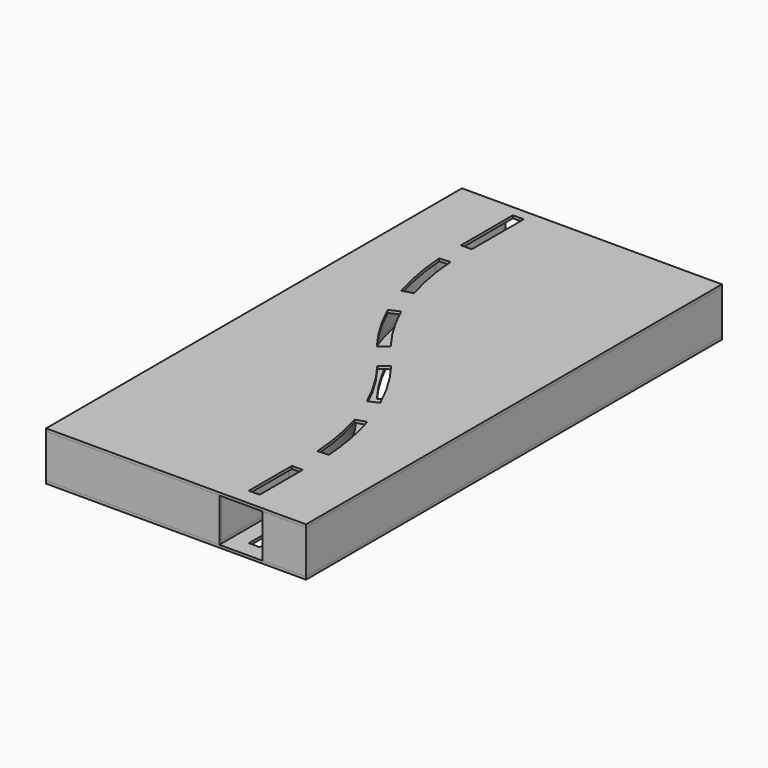
from build123d import *

# Parameters (mm, degrees)
F0_W      = 25.4
F0_H      = 126.473148486
F0_H_2    = 152.4
F1_DEPTH  = 6.35
F2_W      = 6.35
F2_H      = 101.6
F2_W_2    = 101.6
F2_R      = 44.45
F5_DEPTH  = 6.35
F6_DEPTH  = 6.35
F7_DEPTH  = 0.254
F9_DEPTH  = 101.6
F11_START = 101.6
F11_DEPTH = 6.35


with BuildPart() as f1:
    # F0 (on Top) → F1 (new body)
    with BuildSketch(Plane.XY):
        with BuildLine():
            Line((0, 1219.2), (0, 0))
            Line((0, 0), (406.4, 0))
            Line((406.4, 0), (406.4, 203.2))
            ThreePointArc((406.4, 203.2), (370.2816647957, 402.3806242984), (266.5260273973, 576.197260274))
            ThreePointArc((266.5260273973, 576.197260274), (144.1872907633, 781.1452340362), (101.6, 1016))
            Line((101.6, 1016), (101.6, 1219.2))
            Line((101.6, 1219.2), (0, 1219.2))
        make_face()
        with BuildLine():
            Line((406.4, 203.2), (406.4, 0))
            Line((406.4, 0), (508, 0))
            Line((508, 0), (508, 203.2))
            ThreePointArc((508, 203.2), (465.4127092367, 438.0547659638), (343.0739726027, 643.002739726))
            ThreePointArc((343.0739726027, 643.002739726), (239.3183352043, 816.8193757016), (203.2, 1016))
            Line((203.2, 1016), (203.2, 1219.2))
            Line((203.2, 1219.2), (101.6, 1219.2))
            Line((101.6, 1219.2), (101.6, 1016))
            ThreePointArc((101.6, 1016), (144.1872907633, 781.1452340362), (266.5260273973, 576.197260274))
            ThreePointArc((266.5260273973, 576.197260274), (370.2816647957, 402.3806242984), (406.4, 203.2))
        make_face()
        with Locations((457.2, 101.863425757)):
            Rectangle(F0_W, F0_H, mode=Mode.SUBTRACT)
        with BuildLine():
            Line((469.9, 241.3), (444.5, 239.7657718121))
            ThreePointArc((444.5, 239.7657718121), (436.0082925939, 310.6529654643), (419.2450112594, 380.0510613852))
            Line((419.2450112594, 380.0510613852), (443.5853613822, 387.4713856391))
            ThreePointArc((443.5853613822, 387.4713856391), (461.0519971782, 315.1614814977), (469.9, 241.3))
        make_face(mode=Mode.SUBTRACT)
        with BuildLine():
            Line((319.3793460557, 571.7547020123), (339.5295284077, 587.2185356631))
            ThreePointArc((339.5295284077, 587.2185356631), (380.7444662625, 526.5016678969), (414.6285819031, 461.4088430929))
            Line((414.6285819031, 461.4088430929), (391.4542765916, 451.0111715589))
            ThreePointArc((391.4542765916, 451.0111715589), (358.9346219835, 513.482808787), (319.3793460557, 571.7547020123))
        make_face(mode=Mode.SUBTRACT)
        with BuildLine():
            ThreePointArc((218.1457234084, 768.1888284411), (250.6653780165, 705.717191213), (290.2206539443, 647.4452979877))
            Line((290.2206539443, 647.4452979877), (270.0704715923, 631.9814643369))
            ThreePointArc((270.0704715923, 631.9814643369), (228.8555337375, 692.6983321031), (194.9714180969, 757.7911569071))
            Line((194.9714180969, 757.7911569071), (218.1457234084, 768.1888284411))
        make_face(mode=Mode.SUBTRACT)
        with BuildLine():
            ThreePointArc((166.3001406897, 977.9), (174.8139858785, 907.9875702476), (191.3901171594, 839.5371117718))
            Line((191.3901171594, 839.5371117718), (167.0931989982, 832.1330745035))
            ThreePointArc((167.0931989982, 832.1330745035), (149.8215657056, 903.4555801881), (140.9504962431, 976.3013986014))
            Line((140.9504962431, 976.3013986014), (166.3001406897, 977.9))
        make_face(mode=Mode.SUBTRACT)
        with Locations((152.4, 1117.6)):
            Rectangle(F0_W, F0_H_2, mode=Mode.SUBTRACT)
        with BuildLine():
            Line((508, 203.2), (508, 0))
            Line((508, 0), (609.6, 0))
            Line((609.6, 0), (609.6, 1219.2))
            Line((609.6, 1219.2), (203.2, 1219.2))
            Line((203.2, 1219.2), (203.2, 1016))
            ThreePointArc((203.2, 1016), (239.3183352043, 816.8193757016), (343.0739726027, 643.002739726))
            ThreePointArc((343.0739726027, 643.002739726), (465.4127092367, 438.0547659638), (508, 203.2))
        make_face()
    extrude(amount=-F1_DEPTH)

    # F0 (on Top) → F7 (cut)
    with BuildSketch(Plane.XY):
        with BuildLine():
            Line((406.4, 203.2), (406.4, 0))
            Line((406.4, 0), (508, 0))
            Line((508, 0), (508, 203.2))
            ThreePointArc((508, 203.2), (465.4127092367, 438.0547659638), (343.0739726027, 643.002739726))
            ThreePointArc((343.0739726027, 643.002739726), (239.3183352043, 816.8193757016), (203.2, 1016))
            Line((203.2, 1016), (203.2, 1219.2))
            Line((203.2, 1219.2), (101.6, 1219.2))
            Line((101.6, 1219.2), (101.6, 1016))
            ThreePointArc((101.6, 1016), (144.1872907633, 781.1452340362), (266.5260273973, 576.197260274))
            ThreePointArc((266.5260273973, 576.197260274), (370.2816647957, 402.3806242984), (406.4, 203.2))
        make_face()
        with Locations((457.2, 101.863425757)):
            Rectangle(F0_W, F0_H, mode=Mode.SUBTRACT)
        with BuildLine():
            Line((469.9, 241.3), (444.5, 239.7657718121))
            ThreePointArc((444.5, 239.7657718121), (436.0082925939, 310.6529654643), (419.2450112594, 380.0510613852))
            Line((419.2450112594, 380.0510613852), (443.5853613822, 387.4713856391))
            ThreePointArc((443.5853613822, 387.4713856391), (461.0519971782, 315.1614814977), (469.9, 241.3))
        make_face(mode=Mode.SUBTRACT)
        with BuildLine():
            Line((319.3793460557, 571.7547020123), (339.5295284077, 587.2185356631))
            ThreePointArc((339.5295284077, 587.2185356631), (380.7444662625, 526.5016678969), (414.6285819031, 461.4088430929))
            Line((414.6285819031, 461.4088430929), (391.4542765916, 451.0111715589))
            ThreePointArc((391.4542765916, 451.0111715589), (358.9346219835, 513.482808787), (319.3793460557, 571.7547020123))
        make_face(mode=Mode.SUBTRACT)
        with BuildLine():
            ThreePointArc((218.1457234084, 768.1888284411), (250.6653780165, 705.717191213), (290.2206539443, 647.4452979877))
            Line((290.2206539443, 647.4452979877), (270.0704715923, 631.9814643369))
            ThreePointArc((270.0704715923, 631.9814643369), (228.8555337375, 692.6983321031), (194.9714180969, 757.7911569071))
            Line((194.9714180969, 757.7911569071), (218.1457234084, 768.1888284411))
        make_face(mode=Mode.SUBTRACT)
        with BuildLine():
            ThreePointArc((166.3001406897, 977.9), (174.8139858785, 907.9875702476), (191.3901171594, 839.5371117718))
            Line((191.3901171594, 839.5371117718), (167.0931989982, 832.1330745035))
            ThreePointArc((167.0931989982, 832.1330745035), (149.8215657056, 903.4555801881), (140.9504962431, 976.3013986014))
            Line((140.9504962431, 976.3013986014), (166.3001406897, 977.9))
        make_face(mode=Mode.SUBTRACT)
        with Locations((152.4, 1117.6)):
            Rectangle(F0_W, F0_H_2, mode=Mode.SUBTRACT)
    extrude(amount=-F7_DEPTH, mode=Mode.SUBTRACT)


with BuildPart() as f3:
    # F3: sweep along a path in F0
    with BuildLine(Plane.XY) as f3_path:
        Line((406.4, 0), (406.4, 203.2))
        ThreePointArc((406.4, 203.2), (370.2816647957, 402.3806242984), (266.5260273973, 576.197260274))
        ThreePointArc((266.5260273973, 576.197260274), (144.1872907633, 781.1452340362), (101.6, 1016))
        Line((101.6, 1016), (101.6, 1219.2))
    # F2 (on face) → F3 (sweep)
    with BuildSketch(Plane.XZ):
        with Locations((403.225, 50.8)):
            Rectangle(F2_W, F2_H)
    sweep(path=f3_path.line)


with BuildPart() as f4:
    # F4: sweep along a path in F0
    with BuildLine(Plane.XY) as f4_path:
        Line((508, 0), (508, 203.2))
        ThreePointArc((508, 203.2), (465.4127092367, 438.0547659638), (343.0739726027, 643.002739726))
        ThreePointArc((343.0739726027, 643.002739726), (239.3183352043, 816.8193757016), (203.2, 1016))
        Line((203.2, 1016), (203.2, 1219.2))
    # F2 (on face) → F4 (sweep)
    with BuildSketch(Plane.XZ):
        with Locations((511.175, 50.8)):
            Rectangle(F2_W, F2_H)
    sweep(path=f4_path.line)


with BuildPart() as f5:
    # F2 (on face) → F5 (new body)
    with BuildSketch(Plane.XZ):
        with Locations((457.2, 50.8)):
            Rectangle(F2_W_2, F2_H)
        with Locations((457.2, 50.8)):
            Circle(F2_R, mode=Mode.SUBTRACT)
    extrude(amount=F5_DEPTH)


with BuildPart() as f6:
    # F0 (on Top) → F6 (new body)
    with BuildSketch(Plane.XY):
        with BuildLine():
            Line((0, 1219.2), (0, 0))
            Line((0, 0), (406.4, 0))
            Line((406.4, 0), (406.4, 203.2))
            ThreePointArc((406.4, 203.2), (370.2816647957, 402.3806242984), (266.5260273973, 576.197260274))
            ThreePointArc((266.5260273973, 576.197260274), (144.1872907633, 781.1452340362), (101.6, 1016))
            Line((101.6, 1016), (101.6, 1219.2))
            Line((101.6, 1219.2), (0, 1219.2))
        make_face()
    extrude(amount=F6_DEPTH)


with BuildPart() as f6b:
    # F0 (on Top) → F6, piece 2 (new body)
    with BuildSketch(Plane.XY):
        with BuildLine():
            Line((508, 203.2), (508, 0))
            Line((508, 0), (609.6, 0))
            Line((609.6, 0), (609.6, 1219.2))
            Line((609.6, 1219.2), (203.2, 1219.2))
            Line((203.2, 1219.2), (203.2, 1016))
            ThreePointArc((203.2, 1016), (239.3183352043, 816.8193757016), (343.0739726027, 643.002739726))
            ThreePointArc((343.0739726027, 643.002739726), (465.4127092367, 438.0547659638), (508, 203.2))
        make_face()
    extrude(amount=F6_DEPTH)


with BuildPart() as f9:
    # F8 (on face) → F9 (new body)
    with BuildSketch(Plane.XY):
        Polygon((101.6, 1219.2), (0, 1219.2), (0, 0), (406.4, 0), (406.4, 6.5835835412), (6.4838468097, 6.5835835412), (6.4838468097, 1213.1507396698), (101.6, 1213.1507396698), align=None)
    extrude(amount=F9_DEPTH)


with BuildPart() as f9b:
    # F8 (on face) → F9, piece 2 (new body)
    with BuildSketch(Plane.XY):
        Polygon((508, 6.5835835412), (508, 0), (609.6, 0), (609.6, 1219.2), (203.2, 1219.2), (203.2, 1213.1507396698), (601.1018157005, 1213.1507396698), (601.1018157005, 6.5835835412), align=None)
    extrude(amount=F9_DEPTH)


with BuildPart() as f11:
    # F0 (on Top) → F11 (new body)
    with BuildSketch(Plane.XY.offset(F11_START)):
        with BuildLine():
            Line((0, 1219.2), (0, 0))
            Line((0, 0), (406.4, 0))
            Line((406.4, 0), (406.4, 203.2))
            ThreePointArc((406.4, 203.2), (370.2816647957, 402.3806242984), (266.5260273973, 576.197260274))
            ThreePointArc((266.5260273973, 576.197260274), (144.1872907633, 781.1452340362), (101.6, 1016))
            Line((101.6, 1016), (101.6, 1219.2))
            Line((101.6, 1219.2), (0, 1219.2))
        make_face()
        with BuildLine():
            Line((406.4, 203.2), (406.4, 0))
            Line((406.4, 0), (508, 0))
            Line((508, 0), (508, 203.2))
            ThreePointArc((508, 203.2), (465.4127092367, 438.0547659638), (343.0739726027, 643.002739726))
            ThreePointArc((343.0739726027, 643.002739726), (239.3183352043, 816.8193757016), (203.2, 1016))
            Line((203.2, 1016), (203.2, 1219.2))
            Line((203.2, 1219.2), (101.6, 1219.2))
            Line((101.6, 1219.2), (101.6, 1016))
            ThreePointArc((101.6, 1016), (144.1872907633, 781.1452340362), (266.5260273973, 576.197260274))
            ThreePointArc((266.5260273973, 576.197260274), (370.2816647957, 402.3806242984), (406.4, 203.2))
        make_face()
        with Locations((457.2, 101.863425757)):
            Rectangle(F0_W, F0_H, mode=Mode.SUBTRACT)
        with BuildLine():
            Line((469.9, 241.3), (444.5, 239.7657718121))
            ThreePointArc((444.5, 239.7657718121), (436.0082925939, 310.6529654643), (419.2450112594, 380.0510613852))
            Line((419.2450112594, 380.0510613852), (443.5853613822, 387.4713856391))
            ThreePointArc((443.5853613822, 387.4713856391), (461.0519971782, 315.1614814977), (469.9, 241.3))
        make_face(mode=Mode.SUBTRACT)
        with BuildLine():
            Line((319.3793460557, 571.7547020123), (339.5295284077, 587.2185356631))
            ThreePointArc((339.5295284077, 587.2185356631), (380.7444662625, 526.5016678969), (414.6285819031, 461.4088430929))
            Line((414.6285819031, 461.4088430929), (391.4542765916, 451.0111715589))
            ThreePointArc((391.4542765916, 451.0111715589), (358.9346219835, 513.482808787), (319.3793460557, 571.7547020123))
        make_face(mode=Mode.SUBTRACT)
        with BuildLine():
            ThreePointArc((218.1457234084, 768.1888284411), (250.6653780165, 705.717191213), (290.2206539443, 647.4452979877))
            Line((290.2206539443, 647.4452979877), (270.0704715923, 631.9814643369))
            ThreePointArc((270.0704715923, 631.9814643369), (228.8555337375, 692.6983321031), (194.9714180969, 757.7911569071))
            Line((194.9714180969, 757.7911569071), (218.1457234084, 768.1888284411))
        make_face(mode=Mode.SUBTRACT)
        with BuildLine():
            ThreePointArc((166.3001406897, 977.9), (174.8139858785, 907.9875702476), (191.3901171594, 839.5371117718))
            Line((191.3901171594, 839.5371117718), (167.0931989982, 832.1330745035))
            ThreePointArc((167.0931989982, 832.1330745035), (149.8215657056, 903.4555801881), (140.9504962431, 976.3013986014))
            Line((140.9504962431, 976.3013986014), (166.3001406897, 977.9))
        make_face(mode=Mode.SUBTRACT)
        with Locations((152.4, 1117.6)):
            Rectangle(F0_W, F0_H_2, mode=Mode.SUBTRACT)
        with BuildLine():
            Line((508, 203.2), (508, 0))
            Line((508, 0), (609.6, 0))
            Line((609.6, 0), (609.6, 1219.2))
            Line((609.6, 1219.2), (203.2, 1219.2))
            Line((203.2, 1219.2), (203.2, 1016))
            ThreePointArc((203.2, 1016), (239.3183352043, 816.8193757016), (343.0739726027, 643.002739726))
            ThreePointArc((343.0739726027, 643.002739726), (465.4127092367, 438.0547659638), (508, 203.2))
        make_face()
    extrude(amount=F11_DEPTH)


solid = Compound([f1.part, f3.part, f4.part, f6.part, f6b.part, f9.part, f9b.part, f11.part])
